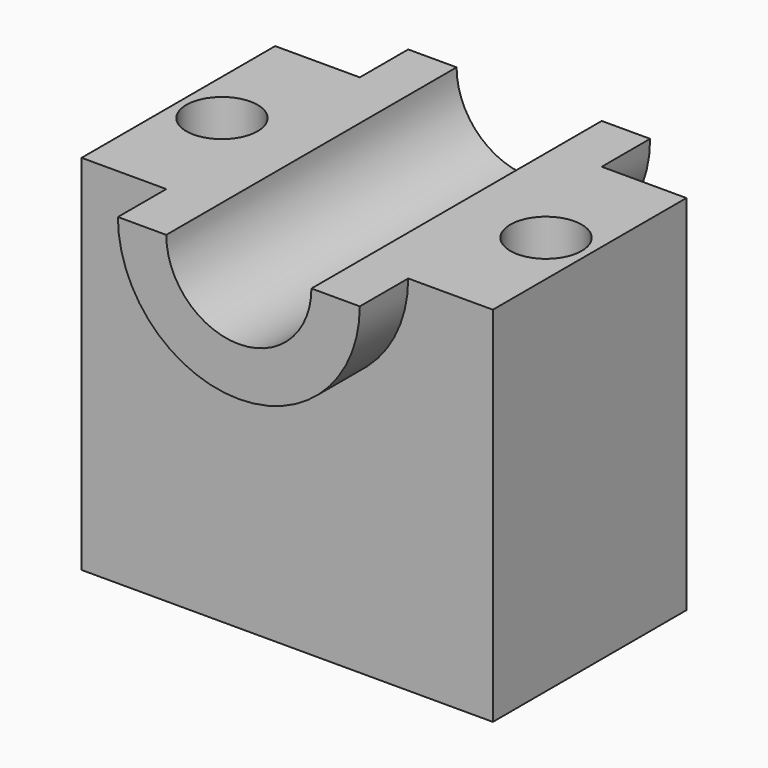
from build123d import *

# Parameters (mm, degrees)
F1_DEPTH = 38.1
F2_R     = 25.4
F2_R_2   = 15.24
F3_DEPTH = 38.1
F4_R     = 15.24
F5_DEPTH = 127
F7_DEPTH = 63.5
F8_R     = 7.4934659192
F9_DEPTH = 76.201


with BuildPart() as f1:
    # F0 (on Top) → F1 (new body, symmetric)
    with BuildSketch(Plane.XY):
        Polygon((-43.18, 0), (-43.18, -25.4), (-20.32, -25.4), (20.32, -25.4), (43.18, -25.4), (43.18, 0), (43.18, 25.4), (20.32, 25.4), (-20.32, 25.4), (-43.18, 25.4), align=None)
    extrude(amount=F1_DEPTH, both=True)

    # F2 (on Front) → F3 (join, symmetric)
    with BuildSketch(Plane.XZ):
        with Locations((0, 38.1)):
            Circle(F2_R)
        with Locations((0, 38.1)):
            Circle(F2_R_2, mode=Mode.SUBTRACT)
    extrude(amount=F3_DEPTH, both=True)

    # F4 (on face) → F5 (cut)
    with BuildSketch(Plane.XZ.offset(38.1)):
        with Locations((0, 38.1)):
            Circle(F4_R)
    extrude(amount=-F5_DEPTH, mode=Mode.SUBTRACT)

    # F6 (on Front) → F7 (cut, symmetric)
    with BuildSketch(Plane.XZ):
        Polygon((-46.0331514478, 71.8028391659), (-43.5670912266, 38.1), (43.5670949519, 38.1), (43.5670949519, 71.8028391659), align=None)
    extrude(amount=F7_DEPTH, both=True, mode=Mode.SUBTRACT)

    # F8 (on face) → F9 (cut, through all)
    with BuildSketch(Plane.XY.offset(38.1)):
        with Locations((-34.0202599764, 0)):
            Circle(F8_R)
        with Locations((34.0202599764, 0)):
            Circle(F8_R)
    extrude(amount=-F9_DEPTH, mode=Mode.SUBTRACT)


solid = f1.part
